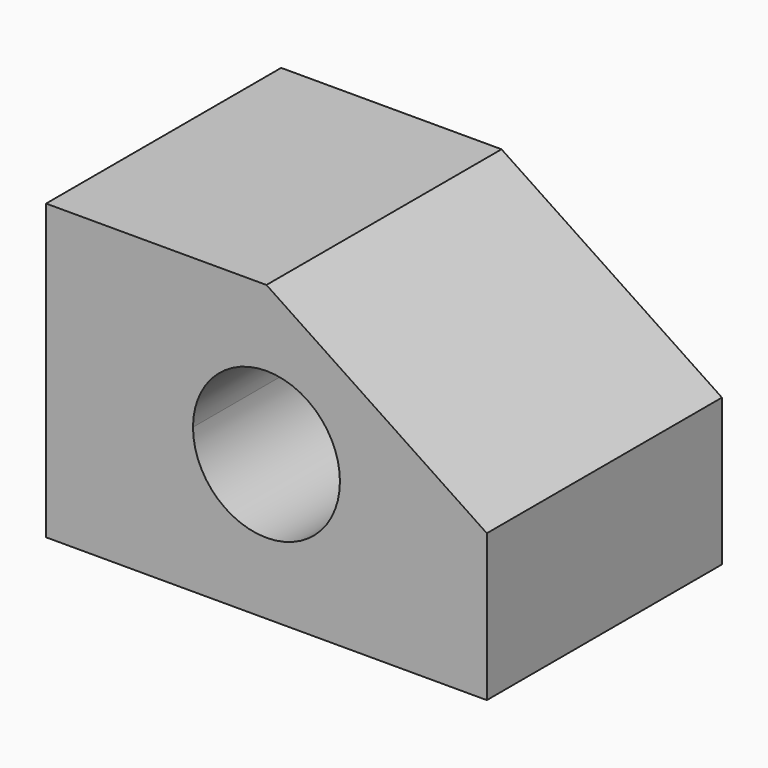
from build123d import *

# Parameters (mm, degrees)
F0_R      = 12.7
F1_DEPTH  = 50.8
F1_FACE_R = 12.7
F2_DEPTH  = 50.8


with BuildPart() as f1:
    # F0 (on Front) → F1 (new body)
    with BuildSketch(Plane.XZ):
        Polygon((38.1, 50.8), (0, 50.8), (0, 0), (76.2, 0), (76.2, 25.4), align=None)
        with Locations((38.1, 25.020719)):
            Circle(F0_R, mode=Mode.SUBTRACT)
    extrude(amount=-F1_DEPTH)

    # F1_face (on face) → F2 (join)
    with BuildSketch(Plane(origin=(33.833102, 0, 22.622123), x_dir=(1, 0, 0), z_dir=(0, -1, 0))):
        Polygon((4.266898, 28.177877), (-33.833102, 28.177877), (-33.833102, -22.622123), (42.366898, -22.622123), (42.366898, 2.777877), align=None)
        with Locations((4.266898, 2.398595)):
            Circle(F1_FACE_R, mode=Mode.SUBTRACT)
    extrude(amount=-F2_DEPTH)


solid = f1.part
